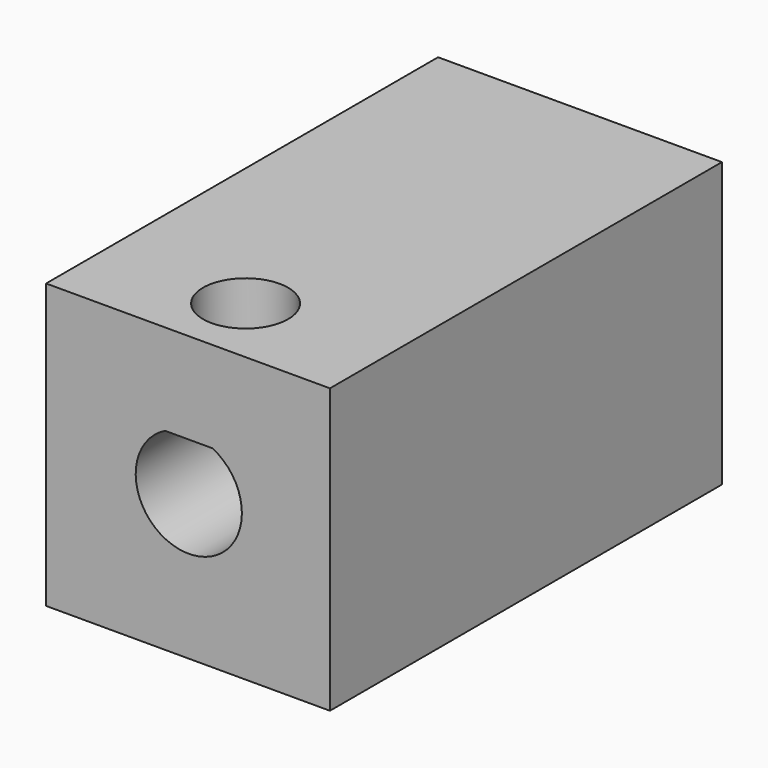
from build123d import *

# Parameters (mm, degrees)
F0_W     = 12.7
F0_H     = 12.7
F1_DEPTH = 21.9202
F2_R     = 1.905
F3_DEPTH = 6.35


with BuildPart() as f1:
    # F0 (on Front) → F1 (new body)
    with BuildSketch(Plane.XZ):
        with Locations((-0.034456, -0.154453)):
            Rectangle(F0_W, F0_H)
        with BuildLine():
            ThreePointArc((1.06045, 2.125105), (0, -2.375), (-1.06045, 2.125105))
            Line((-1.06045, 2.125105), (1.06045, 2.125105))
        make_face(mode=Mode.SUBTRACT)
    extrude(amount=F1_DEPTH)

    # F2 (on face) → F3 (cut)
    with BuildSketch(Plane.XY.offset(6.195547)):
        with Locations((0, -18.7452)):
            Circle(F2_R)
    extrude(amount=-F3_DEPTH, mode=Mode.SUBTRACT)


solid = f1.part
